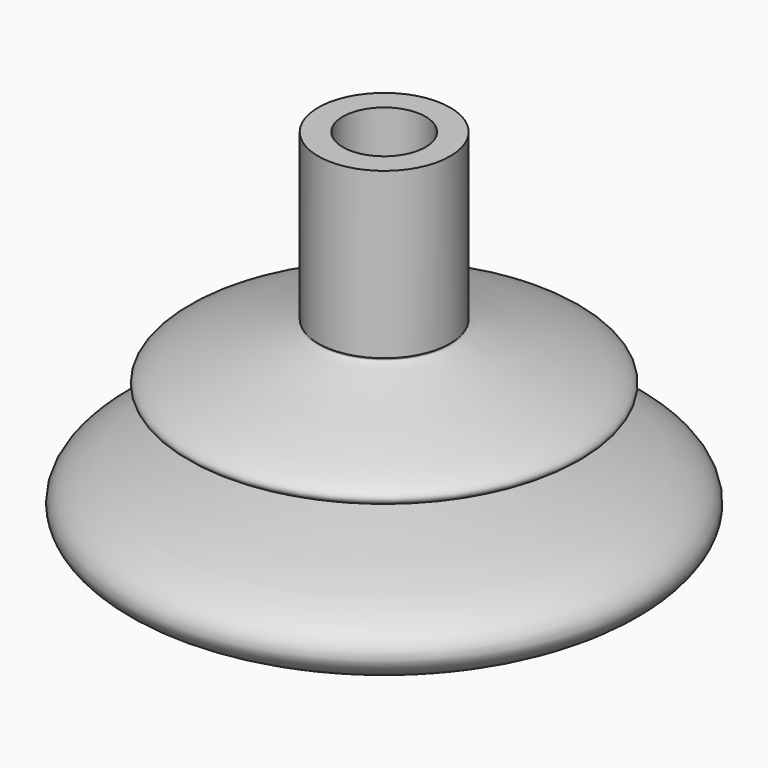
from build123d import *

# Parameters (mm, degrees)
F2_R     = 4.7752
F3_DEPTH = 11.43
F4_R     = 1.59258
F5_DEPTH = 19.685


with BuildPart() as f1:
    # F0 (on Front) → F1 (revolve)
    with BuildSketch(Plane.XZ):
        with BuildLine():
            Line((0, 49.53), (0, 0))
            Line((0, 0), (7.62, 4.5790501198))
            add(Edge.make_bspline(
                [(7.62, 4.5790501198), (29.7629128184, 6.2660863931), (38.3151381872, 16.6933844429), (-7.2643313704, 19.7713115256), (36.777698875, 22.9889912098), (6.7876640157, 29.4968915755), (7.4576054123, 30.2991130403), (7.62, 30.48)],
                knots=[0, 0, 0, 0, 0.264066964, 0.5177980437, 0.7376172199, 0.9619915978, 1, 1, 1, 1], degree=3))
            Line((7.62, 30.48), (7.62, 49.53))
            Line((7.62, 49.53), (0, 49.53))
        make_face()
    revolve(axis=Axis((0, 0, 24.765), (0, 0, -1)))

    # F2 (on face) → F3 (cut)
    with BuildSketch(Plane.XY.offset(49.53)):
        Circle(F2_R)
    extrude(amount=-F3_DEPTH, mode=Mode.SUBTRACT)

    # F4 (on Top) → F5 (cut)
    with BuildSketch(Plane.XY):
        Circle(F4_R)
    extrude(amount=F5_DEPTH, mode=Mode.SUBTRACT)


solid = f1.part
